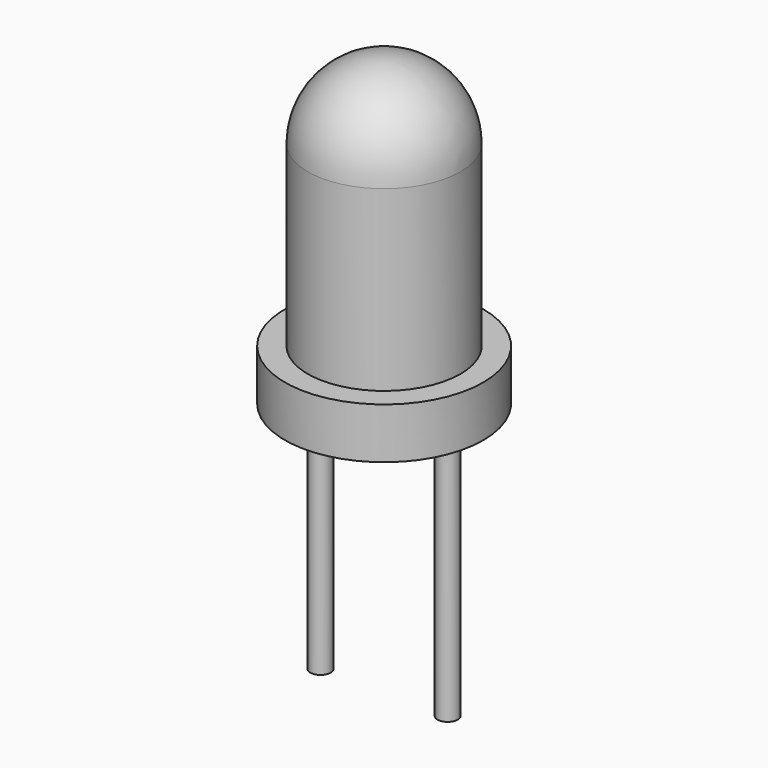
from build123d import *

# Parameters (mm, degrees)
F0_R     = 1.5
F1_DEPTH = 5
F2_R     = 1.95
F3_DEPTH = 1
F4_R     = 0.2
F5_DEPTH = 5
F6_R     = 1.5


with BuildPart() as f1:
    # F0 (on Top) → F1 (new body)
    with BuildSketch(Plane.XY):
        Circle(F0_R)
    extrude(amount=F1_DEPTH)

    # F2 (on face) → F3 (join)
    with BuildSketch(Plane(origin=(0, 0, 0), x_dir=(1, 0, 0), z_dir=(0, 0, -1))):
        Circle(F2_R)
    extrude(amount=F3_DEPTH)

    # F6
    f6_edges = [f1.edges().sort_by_distance(p)[0] for p in [
        (-1.5, 0, 5),
    ]]
    fillet(f6_edges, radius=F6_R)


with BuildPart() as f5:
    # F4 (on face) → F5 (new body)
    with BuildSketch(Plane(origin=(0, 0, -1), x_dir=(1, 0, 0), z_dir=(0, 0, -1))):
        with Locations((-1.25, 0)):
            Circle(F4_R)
        with Locations((1.25, 0)):
            Circle(F4_R)
    extrude(amount=F5_DEPTH)


solid = Compound([f1.part, f5.part])
